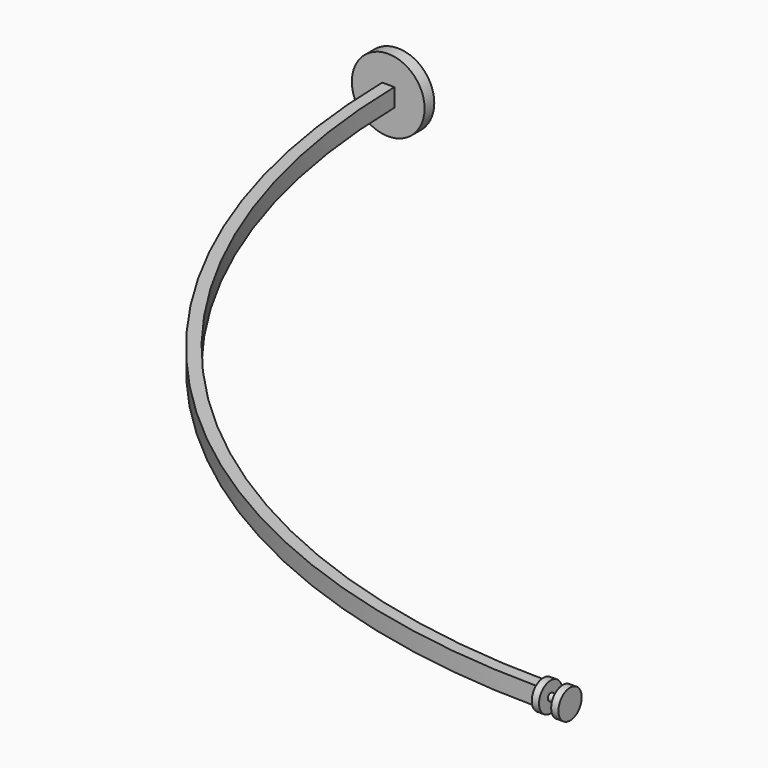
from build123d import *

# Parameters (mm, degrees)
PAD_DEPTH    = 0.375
SKETCH002_R  = 1.5
PAD001_DEPTH = 0.5
SKETCH003_R  = 0.6
PAD002_DEPTH = 0.3
SKETCH004_R  = 0.15
PAD003_DEPTH = 0.5
SKETCH005_R  = 0.6
PAD004_DEPTH = 0.3


with BuildPart() as part:
    # Sketch → Pad (new body, symmetric)
    with BuildSketch(Plane.XY):
        with BuildLine():
            Line((-0.25, 0), (0, 0))
            Line((0, 0), (0.25, 0))
            ThreePointArc((0.25, 0), (8.963573, -21.036427), (30, -29.75))
            Line((30, -29.75), (30, -30))
            Line((30, -30), (30, -30.25))
            ThreePointArc((-0.25, 0), (8.61002, -21.38998), (30, -30.25))
        make_face()
    extrude(amount=PAD_DEPTH, both=True)

    # Sketch002 → Pad001 (join)
    with BuildSketch(Plane.XZ):
        Circle(SKETCH002_R)
    extrude(amount=PAD001_DEPTH)

    # Sketch003 (on DatumPlane) → Pad002 (join)
    with BuildSketch(Plane(origin=(30, -30, 0), x_dir=(0, 1, 0), z_dir=(1, 0, 0))):
        Circle(SKETCH003_R)
    extrude(amount=PAD002_DEPTH)

    # Sketch004 (on DatumPlane) → Pad003 (join)
    with BuildSketch(Plane(origin=(30.3, -30, 0), x_dir=(0, 1, 0), z_dir=(1, 0, 0))):
        Circle(SKETCH004_R)
    extrude(amount=PAD003_DEPTH)

    # Sketch005 (on DatumPlane) → Pad004 (join)
    with BuildSketch(Plane(origin=(30.8, -30, 0), x_dir=(0, 1, 0), z_dir=(1, 0, 0))):
        Circle(SKETCH005_R)
    extrude(amount=PAD004_DEPTH)


solid = part.part
